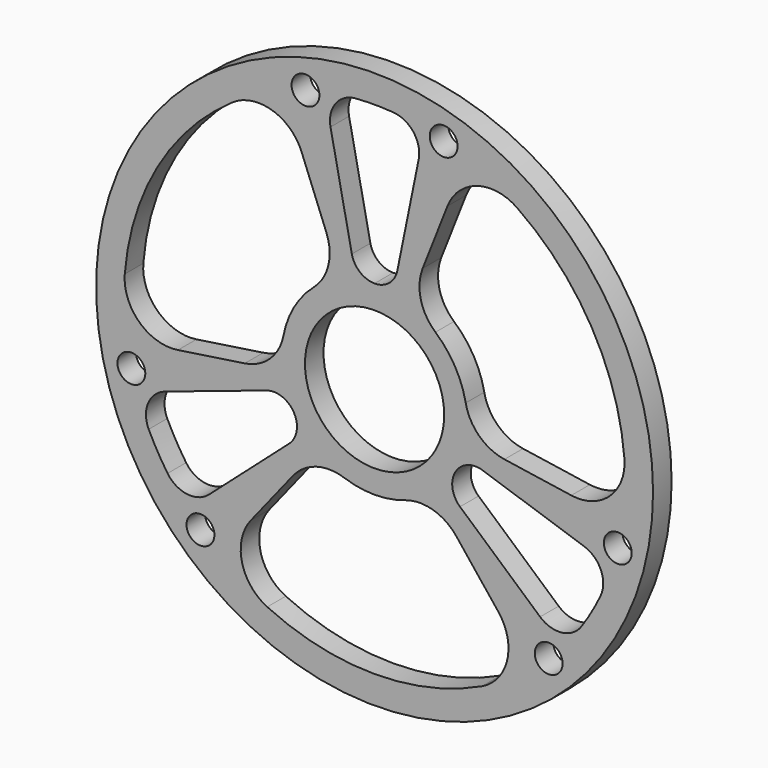
from build123d import *

# Parameters (mm, degrees)
F0_R     = 1524
F0_R_2   = 76.2
F0_R_3   = 381
F1_DEPTH = 127


with BuildPart() as f1:
    # F0 (on Front) → F1 (new body)
    with BuildSketch(Plane.XZ):
        Circle(F0_R)
        with Locations((-952.7934209216, -986.6464701445)):
            Circle(F0_R_2, mode=Mode.SUBTRACT)
        with BuildLine():
            Line((-1147.1278549233, -383.8236111278), (-591.9672795655, -198.069481041))
            ThreePointArc((-591.9672795655, -198.069481041), (-441.6843619214, -255.0065852522), (-467.5168420786, -413.6239617924))
            Line((-467.5168420786, -413.6239617924), (-905.9649252706, -801.5300581884))
            ThreePointArc((-905.9649252706, -801.5300581884), (-1025.7596879891, -838.6237549571), (-1132.816748196, -773.3128571327))
            ThreePointArc((-1132.816748196, -773.3128571327), (-1187.8404438307, -685.8), (-1236.116953448, -594.3916532039))
            ThreePointArc((-1236.116953448, -594.3916532038), (-1239.1493200045, -469.022070498), (-1147.1278549233, -383.8236111278))
        make_face(mode=Mode.SUBTRACT)
        with Locations((-1330.8576181602, -331.8200720045)):
            Circle(F0_R_2, mode=Mode.SUBTRACT)
        with BuildLine():
            ThreePointArc((-587.5367296731, -1239.389830233), (-726.1553614682, -1067.3056560513), (-677.516103426, -851.7544772987))
            Line((-677.516103426, -851.7544772987), (-447.2272700896, -562.2417352778))
            ThreePointArc((-447.2272700896, -562.2417352778), (-319.4601226238, -476.4899469689), (-165.6298654994, -480.2403019892))
            ThreePointArc((-165.6298654994, -480.2403019892), (0, -508), (165.6298654994, -480.2403019892))
            ThreePointArc((165.6298654994, -480.2403019892), (319.4601226238, -476.4899469689), (447.2272700896, -562.2417352778))
            Line((447.2272700896, -562.2417352778), (677.516103426, -851.7544772987))
            ThreePointArc((677.516103426, -851.7544772987), (726.1553614682, -1067.3056560513), (587.5367296731, -1239.389830233))
            ThreePointArc((587.5367296731, -1239.389830233), (0, -1371.6), (-587.5367296731, -1239.389830233))
        make_face(mode=Mode.SUBTRACT)
        with Locations((952.7934209216, -986.6464701445)):
            Circle(F0_R_2, mode=Mode.SUBTRACT)
        with BuildLine():
            Line((905.9649252706, -801.5300581884), (467.5168420786, -413.6239617924))
            ThreePointArc((467.5168420786, -413.6239617924), (441.6843619214, -255.0065852522), (591.9672795655, -198.069481041))
            Line((591.9672795655, -198.069481041), (1147.1278549233, -383.8236111278))
            ThreePointArc((1147.1278549233, -383.8236111278), (1239.1493200045, -469.022070498), (1236.116953448, -594.3916532039))
            ThreePointArc((1236.116953448, -594.3916532039), (1187.8404438307, -685.8), (1132.816748196, -773.3128571327))
            ThreePointArc((1132.816748196, -773.3128571327), (1025.7596879891, -838.6237549571), (905.9649252706, -801.5300581884))
        make_face(mode=Mode.SUBTRACT)
        with Locations((1330.8576181602, -331.8200720045)):
            Circle(F0_R_2, mode=Mode.SUBTRACT)
        with BuildLine():
            ThreePointArc((-263.3019907736, 668.4310448017), (-252.922337411, 514.9055551727), (-333.085368694, 383.5598221425))
            ThreePointArc((-333.085368694, 383.5598221425), (-439.9409051225, 254), (-498.7152341934, 96.6804798467))
            ThreePointArc((-498.7152341934, 96.6804798467), (-572.3824600348, -38.4156082039), (-710.5292608632, -106.1893095239))
            Line((-710.5292608632, -106.1893095239), (-1076.3990668408, -160.8689183906))
            ThreePointArc((-1076.3990668408, -160.8689183906), (-1287.3914924773, -95.2161621001), (-1367.1114430104, 110.8731815631))
            ThreePointArc((-1367.1114430104, 110.8731815631), (-1187.8404438307, 685.8), (-779.5747133373, 1128.5166486699))
            ThreePointArc((-779.5747133373, 1128.5166486699), (-561.2361310092, 1162.5218181514), (-398.8829634148, 1012.6233956893))
            Line((-398.8829634148, 1012.6233956893), (-263.3019907736, 668.4310448017))
        make_face(mode=Mode.SUBTRACT)
        with BuildLine():
            ThreePointArc((-304.2608883721, 1337.427333281), (-302.465744425, 1328.0223745138), (-301.8641972386, 1318.466542149))
            ThreePointArc((-301.8641972386, 1318.466542149), (-423.9225020028, 1257.6105162834), (-399.0677637519, 1391.7146833795))
            ThreePointArc((-399.0677637519, 1391.7146833795), (-340.1995396629, 1384.5929945465), (-304.2608883721, 1337.427333281))
        make_face(mode=Mode.SUBTRACT)
        Circle(F0_R_3, mode=Mode.SUBTRACT)
        with BuildLine():
            ThreePointArc((1367.1114430104, 110.8731815631), (1287.3914924773, -95.2161621001), (1076.3990668408, -160.8689183906))
            Line((1076.3990668408, -160.8689183906), (710.5292608632, -106.1893095239))
            ThreePointArc((710.5292608632, -106.1893095239), (572.3824600348, -38.4156082039), (498.7152341934, 96.6804798467))
            ThreePointArc((498.7152341934, 96.6804798467), (439.9409051225, 254), (333.085368694, 383.5598221425))
            ThreePointArc((333.085368694, 383.5598221425), (252.922337411, 514.9055551727), (263.3019907736, 668.4310448017))
            Line((263.3019907736, 668.4310448017), (398.8829634148, 1012.6233956893))
            ThreePointArc((398.8829634148, 1012.6233956893), (561.2361310092, 1162.5218181514), (779.5747133373, 1128.5166486699))
            ThreePointArc((779.5747133373, 1128.5166486699), (1187.8404438307, 685.8), (1367.1114430104, 110.8731815631))
        make_face(mode=Mode.SUBTRACT)
        with BuildLine():
            ThreePointArc((0, 510.0131705043), (-80.3535767274, 538.6653047059), (-124.4504374868, 611.6934428334))
            Line((-124.4504374868, 611.6934428334), (-241.1629296527, 1185.3536693162))
            ThreePointArc((-241.1629296527, 1185.3536693162), (-213.3896320154, 1307.6458254551), (-103.300205252, 1367.7045103365))
            ThreePointArc((-103.300205252, 1367.7045103365), (0, 1371.6), (103.300205252, 1367.7045103365))
            ThreePointArc((103.300205252, 1367.7045103365), (213.3896320154, 1307.6458254551), (241.1629296527, 1185.3536693162))
            Line((241.1629296527, 1185.3536693162), (124.4504374868, 611.6934428334))
            ThreePointArc((124.4504374868, 611.6934428334), (80.3535767274, 538.6653047059), (0, 510.0131705043))
        make_face(mode=Mode.SUBTRACT)
        with BuildLine():
            ThreePointArc((399.0677637519, 1391.7146833795), (438.9202231042, 1364.3248469132), (454.2641972386, 1318.466542149))
            ThreePointArc((454.2641972386, 1318.466542149), (368.5083648738, 1242.8680893354), (304.2608883721, 1337.427333281))
            ThreePointArc((304.2608883721, 1337.427333281), (340.1995396629, 1384.5929945465), (399.0677637519, 1391.7146833795))
        make_face(mode=Mode.SUBTRACT)
    extrude(amount=F1_DEPTH)


solid = f1.part
